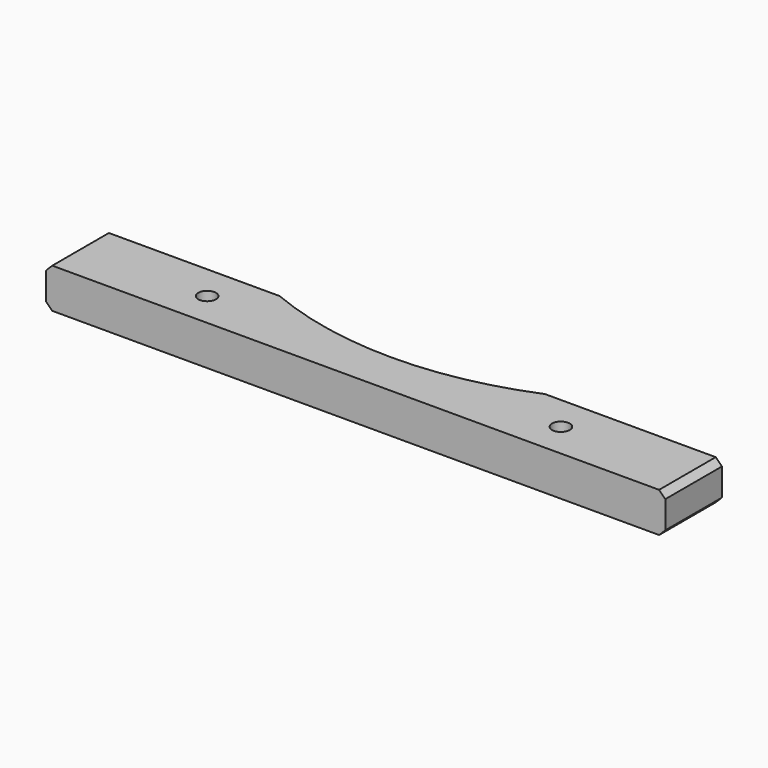
from build123d import *

# Parameters (mm, degrees)
F0_R     = 1
F1_DEPTH = 4.5
F2_SIZE  = 0.7


with BuildPart() as f1:
    # F0 (on Top) → F1 (new body)
    with BuildSketch(Plane.XY):
        with BuildLine():
            Line((-35, -4), (35, -4))
            Line((35, -4), (35, 4))
            Line((35, 4), (15, 4))
            ThreePointArc((15, 4), (7.648529, 1.757354), (0, 1))
            ThreePointArc((0, 1), (-7.648529, 1.757354), (-15, 4))
            Line((-15, 4), (-35, 4))
            Line((-35, 4), (-35, -4))
        make_face()
        with Locations((-20, 0)):
            Circle(F0_R, mode=Mode.SUBTRACT)
        with BuildLine():
            ThreePointArc((21, 0), (20, -1), (19, 0))
            ThreePointArc((19, 0), (20, 1), (21, 0))
        make_face(mode=Mode.SUBTRACT)
    extrude(amount=F1_DEPTH)

    # F2
    f2_edges = [f1.edges().sort_by_distance(p)[0] for p in [
        (-35, 0, 4.5),
        (35, 0, 4.5),
        (-35, 0, 0),
        (35, 0, 0),
    ]]
    chamfer(f2_edges, length=F2_SIZE)


solid = f1.part
